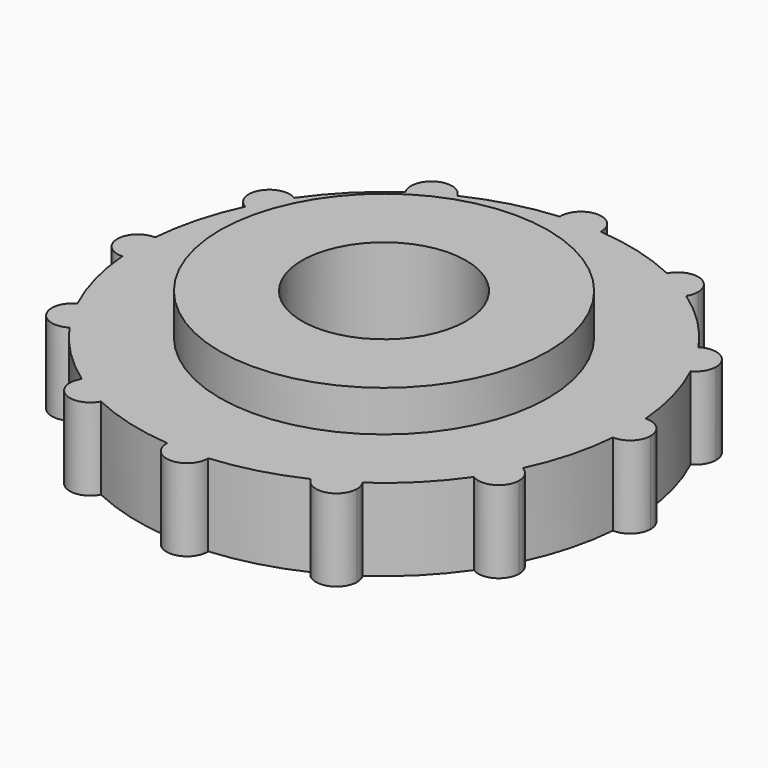
from build123d import *

# Parameters (mm, degrees)
F0_R     = 25.4
F1_DEPTH = 12.7
F0_R_2   = 12.7
F2_DEPTH = 19.05


with BuildPart() as f1:
    # F0 (on Top) → F1 (new body)
    with BuildSketch(Plane.XY):
        with BuildLine():
            ThreePointArc((37.9677083333, -3.1722427264), (38.0669127163, -1.5875), (38.1, 0))
            ThreePointArc((38.1, 0), (38.0669127163, 1.5875), (37.9677083333, 3.1722427264))
            ThreePointArc((37.9677083333, 3.1722427264), (34.925, 0), (37.9677083333, -3.1722427264))
        make_face()
        with BuildLine():
            ThreePointArc((37.9677083333, 3.1722427264), (38.0669127163, 1.5875), (38.1, 0))
            ThreePointArc((38.1, 0), (38.0669127163, -1.5875), (37.9677083333, -3.1722427264))
            ThreePointArc((37.9677083333, -3.1722427264), (40.2977942304, -2.2913588808), (41.275, 0))
            ThreePointArc((41.275, 0), (40.2977942304, 2.2913588808), (37.9677083333, 3.1722427264))
        make_face()
        with BuildLine():
            ThreePointArc((37.9677083333, -3.1722427264), (34.925, 0), (37.9677083333, 3.1722427264))
            ThreePointArc((37.9677083333, 3.1722427264), (36.8017739816, 9.8610056184), (34.4671213033, 16.2366113787))
            ThreePointArc((34.4671213033, 16.2366113787), (30.2459372272, 17.4625), (31.294878577, 21.7310969547))
            ThreePointArc((31.294878577, 21.7310969547), (26.9407683632, 26.9407683632), (21.7310969547, 31.294878577))
            ThreePointArc((21.7310969547, 31.294878577), (17.4625, 30.2459372272), (16.2366113787, 34.4671213033))
            ThreePointArc((16.2366113787, 34.4671213033), (9.8610056184, 36.8017739816), (3.1722427264, 37.9677083333))
            ThreePointArc((3.1722427264, 37.9677083333), (0, 34.925), (-3.1722427264, 37.9677083333))
            ThreePointArc((-3.1722427264, 37.9677083333), (-9.8610056184, 36.8017739816), (-16.2366113787, 34.4671213033))
            ThreePointArc((-16.2366113787, 34.4671213033), (-15.9667278848, 33.7532340796), (-15.875, 32.9955678842))
            ThreePointArc((-15.875, 32.9955678842), (-18.1645221152, 29.9465428079), (-21.7310969547, 31.294878577))
            ThreePointArc((-21.7310969547, 31.294878577), (-26.9407683632, 26.9407683632), (-31.294878577, 21.7310969547))
            ThreePointArc((-31.294878577, 21.7310969547), (-30.2134541598, 20.5798588905), (-29.8205678842, 19.05))
            ThreePointArc((-29.8205678842, 19.05), (-31.3511161679, 16.3340464745), (-34.4671213033, 16.2366113787))
            ThreePointArc((-34.4671213033, 16.2366113787), (-36.8017739816, 9.8610056184), (-37.9677083333, 3.1722427264))
            ThreePointArc((-37.9677083333, 3.1722427264), (-35.8086411192, 2.1977942304), (-34.925, 0))
            ThreePointArc((-34.925, 0), (-35.8086411192, -2.1977942304), (-37.9677083333, -3.1722427264))
            ThreePointArc((-37.9677083333, -3.1722427264), (-36.8017739816, -9.8610056184), (-34.4671213033, -16.2366113787))
            ThreePointArc((-34.4671213033, -16.2366113787), (-31.3511161679, -16.3340464745), (-29.8205678842, -19.05))
            ThreePointArc((-29.8205678842, -19.05), (-30.2134541598, -20.5798588905), (-31.294878577, -21.7310969547))
            ThreePointArc((-31.294878577, -21.7310969547), (-26.9407683632, -26.9407683632), (-21.7310969547, -31.294878577))
            ThreePointArc((-21.7310969547, -31.294878577), (-18.1645221152, -29.9465428079), (-15.875, -32.9955678842))
            ThreePointArc((-15.875, -32.9955678842), (-15.9667278848, -33.7532340796), (-16.2366113787, -34.4671213033))
            ThreePointArc((-16.2366113787, -34.4671213033), (-9.8610056184, -36.8017739816), (-3.1722427264, -37.9677083333))
            ThreePointArc((-3.1722427264, -37.9677083333), (0, -34.925), (3.1722427264, -37.9677083333))
            ThreePointArc((3.1722427264, -37.9677083333), (9.8610056184, -36.8017739816), (16.2366113787, -34.4671213033))
            ThreePointArc((16.2366113787, -34.4671213033), (17.4625, -30.2459372272), (21.7310969547, -31.294878577))
            ThreePointArc((21.7310969547, -31.294878577), (26.9407683632, -26.9407683632), (31.294878577, -21.7310969547))
            ThreePointArc((31.294878577, -21.7310969547), (30.2459372272, -17.4625), (34.4671213033, -16.2366113787))
            ThreePointArc((34.4671213033, -16.2366113787), (36.8017739816, -9.8610056184), (37.9677083333, -3.1722427264))
        make_face()
        Circle(F0_R, mode=Mode.SUBTRACT)
        with BuildLine():
            ThreePointArc((31.294878577, 21.7310969547), (30.2459372272, 17.4625), (34.4671213033, 16.2366113787))
            ThreePointArc((34.4671213033, 16.2366113787), (32.9955678842, 19.05), (31.294878577, 21.7310969547))
        make_face()
        with BuildLine():
            ThreePointArc((31.294878577, 21.7310969547), (32.9955678842, 19.05), (34.4671213033, 16.2366113787))
            ThreePointArc((34.4671213033, 16.2366113787), (35.7115214097, 17.4055482837), (36.1705678842, 19.05))
            ThreePointArc((36.1705678842, 19.05), (34.5254267747, 21.8321137243), (31.294878577, 21.7310969547))
        make_face()
        with BuildLine():
            ThreePointArc((36.1705678842, -19.05), (35.7115214097, -17.4055482837), (34.4671213033, -16.2366113787))
            ThreePointArc((34.4671213033, -16.2366113787), (32.9955678842, -19.05), (31.294878577, -21.7310969547))
            ThreePointArc((31.294878577, -21.7310969547), (34.5254267747, -21.8321137243), (36.1705678842, -19.05))
        make_face()
        with BuildLine():
            ThreePointArc((31.294878577, -21.7310969547), (32.9955678842, -19.05), (34.4671213033, -16.2366113787))
            ThreePointArc((34.4671213033, -16.2366113787), (30.2459372272, -17.4625), (31.294878577, -21.7310969547))
        make_face()
        with BuildLine():
            ThreePointArc((16.2366113787, 34.4671213033), (17.4625, 30.2459372272), (21.7310969547, 31.294878577))
            ThreePointArc((21.7310969547, 31.294878577), (19.05, 32.9955678842), (16.2366113787, 34.4671213033))
        make_face()
        with BuildLine():
            ThreePointArc((16.2366113787, 34.4671213033), (19.05, 32.9955678842), (21.7310969547, 31.294878577))
            ThreePointArc((21.7310969547, 31.294878577), (22.0990250762, 32.1100899994), (22.225, 32.9955678842))
            ThreePointArc((22.225, 32.9955678842), (19.8076661954, 36.0788399994), (16.2366113787, 34.4671213033))
        make_face()
        with BuildLine():
            ThreePointArc((22.225, -32.9955678842), (22.0990250762, -32.1100899994), (21.7310969547, -31.294878577))
            ThreePointArc((21.7310969547, -31.294878577), (19.05, -32.9955678842), (16.2366113787, -34.4671213033))
            ThreePointArc((16.2366113787, -34.4671213033), (19.8076661954, -36.0788399994), (22.225, -32.9955678842))
        make_face()
        with BuildLine():
            ThreePointArc((16.2366113787, -34.4671213033), (19.05, -32.9955678842), (21.7310969547, -31.294878577))
            ThreePointArc((21.7310969547, -31.294878577), (17.4625, -30.2459372272), (16.2366113787, -34.4671213033))
        make_face()
        with BuildLine():
            ThreePointArc((-3.1722427264, 37.9677083333), (0, 34.925), (3.1722427264, 37.9677083333))
            ThreePointArc((3.1722427264, 37.9677083333), (0, 38.1), (-3.1722427264, 37.9677083333))
        make_face()
        with BuildLine():
            ThreePointArc((-3.1722427264, 37.9677083333), (0, 38.1), (3.1722427264, 37.9677083333))
            ThreePointArc((3.1722427264, 37.9677083333), (3.1743106067, 38.0338398012), (3.175, 38.1))
            ThreePointArc((3.175, 38.1), (-0.0661601988, 41.2743106067), (-3.1722427264, 37.9677083333))
        make_face()
        with BuildLine():
            ThreePointArc((3.175, -38.1), (3.1743106067, -38.0338398012), (3.1722427264, -37.9677083333))
            ThreePointArc((3.1722427264, -37.9677083333), (0, -38.1), (-3.1722427264, -37.9677083333))
            ThreePointArc((-3.1722427264, -37.9677083333), (-0.0661601988, -41.2743106067), (3.175, -38.1))
        make_face()
        with BuildLine():
            ThreePointArc((-3.1722427264, -37.9677083333), (0, -38.1), (3.1722427264, -37.9677083333))
            ThreePointArc((3.1722427264, -37.9677083333), (0, -34.925), (-3.1722427264, -37.9677083333))
        make_face()
        with BuildLine():
            ThreePointArc((-15.875, 32.9955678842), (-15.9667278848, 33.7532340796), (-16.2366113787, 34.4671213033))
            ThreePointArc((-16.2366113787, 34.4671213033), (-19.05, 32.9955678842), (-21.7310969547, 31.294878577))
            ThreePointArc((-21.7310969547, 31.294878577), (-18.1645221152, 29.9465428079), (-15.875, 32.9955678842))
        make_face()
        with BuildLine():
            ThreePointArc((-21.7310969547, 31.294878577), (-19.05, 32.9955678842), (-16.2366113787, 34.4671213033))
            ThreePointArc((-16.2366113787, 34.4671213033), (-20.6375, 35.7451985412), (-21.7310969547, 31.294878577))
        make_face()
        with BuildLine():
            ThreePointArc((-21.7310969547, -31.294878577), (-20.6375, -35.7451985412), (-16.2366113787, -34.4671213033))
            ThreePointArc((-16.2366113787, -34.4671213033), (-19.05, -32.9955678842), (-21.7310969547, -31.294878577))
        make_face()
        with BuildLine():
            ThreePointArc((-21.7310969547, -31.294878577), (-19.05, -32.9955678842), (-16.2366113787, -34.4671213033))
            ThreePointArc((-16.2366113787, -34.4671213033), (-15.9667278848, -33.7532340796), (-15.875, -32.9955678842))
            ThreePointArc((-15.875, -32.9955678842), (-18.1645221152, -29.9465428079), (-21.7310969547, -31.294878577))
        make_face()
        with BuildLine():
            ThreePointArc((-29.8205678842, 19.05), (-30.2134541598, 20.5798588905), (-31.294878577, 21.7310969547))
            ThreePointArc((-31.294878577, 21.7310969547), (-32.9955678842, 19.05), (-34.4671213033, 16.2366113787))
            ThreePointArc((-34.4671213033, 16.2366113787), (-31.3511161679, 16.3340464745), (-29.8205678842, 19.05))
        make_face()
        with BuildLine():
            ThreePointArc((-34.4671213033, 16.2366113787), (-32.9955678842, 19.05), (-31.294878577, 21.7310969547))
            ThreePointArc((-31.294878577, 21.7310969547), (-35.7451985412, 20.6375), (-34.4671213033, 16.2366113787))
        make_face()
        with BuildLine():
            ThreePointArc((-34.4671213033, -16.2366113787), (-35.7451985412, -20.6375), (-31.294878577, -21.7310969547))
            ThreePointArc((-31.294878577, -21.7310969547), (-32.9955678842, -19.05), (-34.4671213033, -16.2366113787))
        make_face()
        with BuildLine():
            ThreePointArc((-34.4671213033, -16.2366113787), (-32.9955678842, -19.05), (-31.294878577, -21.7310969547))
            ThreePointArc((-31.294878577, -21.7310969547), (-30.2134541598, -20.5798588905), (-29.8205678842, -19.05))
            ThreePointArc((-29.8205678842, -19.05), (-31.3511161679, -16.3340464745), (-34.4671213033, -16.2366113787))
        make_face()
        with BuildLine():
            ThreePointArc((-34.925, 0), (-35.8086411192, 2.1977942304), (-37.9677083333, 3.1722427264))
            ThreePointArc((-37.9677083333, 3.1722427264), (-38.1, 0), (-37.9677083333, -3.1722427264))
            ThreePointArc((-37.9677083333, -3.1722427264), (-35.8086411192, -2.1977942304), (-34.925, 0))
        make_face()
        with BuildLine():
            ThreePointArc((-37.9677083333, -3.1722427264), (-38.1, 0), (-37.9677083333, 3.1722427264))
            ThreePointArc((-37.9677083333, 3.1722427264), (-41.275, 0), (-37.9677083333, -3.1722427264))
        make_face()
    extrude(amount=F1_DEPTH)

    # F0 (on Top) → F2 (join)
    with BuildSketch(Plane.XY):
        Circle(F0_R)
        Circle(F0_R_2, mode=Mode.SUBTRACT)
    extrude(amount=F2_DEPTH)


solid = f1.part
